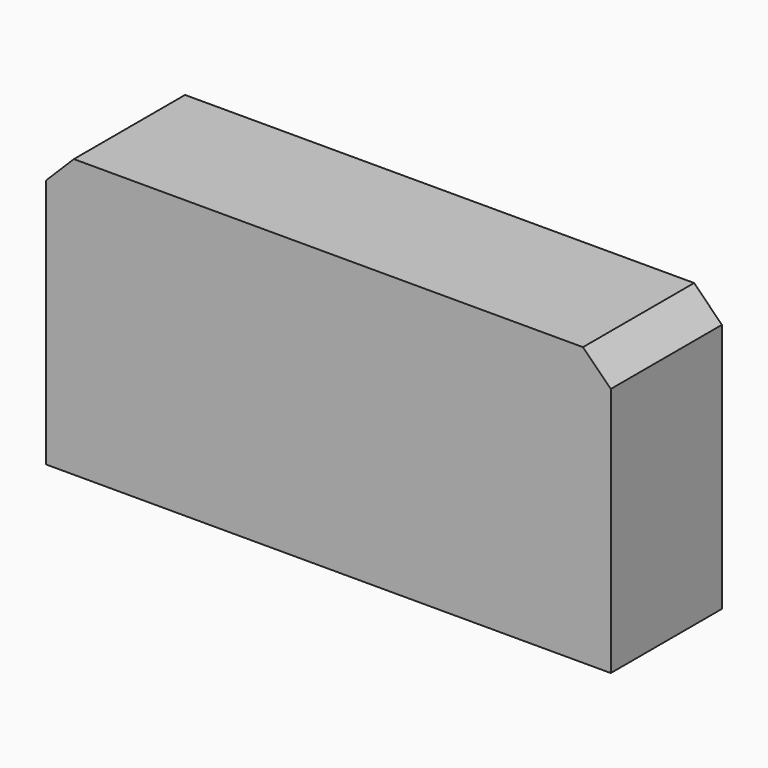
from build123d import *

# Parameters (mm, degrees)
F0_W     = 101.6
F0_H     = 50
F1_DEPTH = 25
F2_SIZE  = 5


with BuildPart() as f1:
    # F0 (on Front) → F1 (new body)
    with BuildSketch(Plane.XZ):
        with Locations((0.8, 0)):
            Rectangle(F0_W, F0_H)
    extrude(amount=F1_DEPTH)

    # F2
    f2_edges = [f1.edges().sort_by_distance(p)[0] for p in [
        (-50, -12.5, 25),
        (51.6, -12.5, 25),
    ]]
    chamfer(f2_edges, length=F2_SIZE)


solid = f1.part
